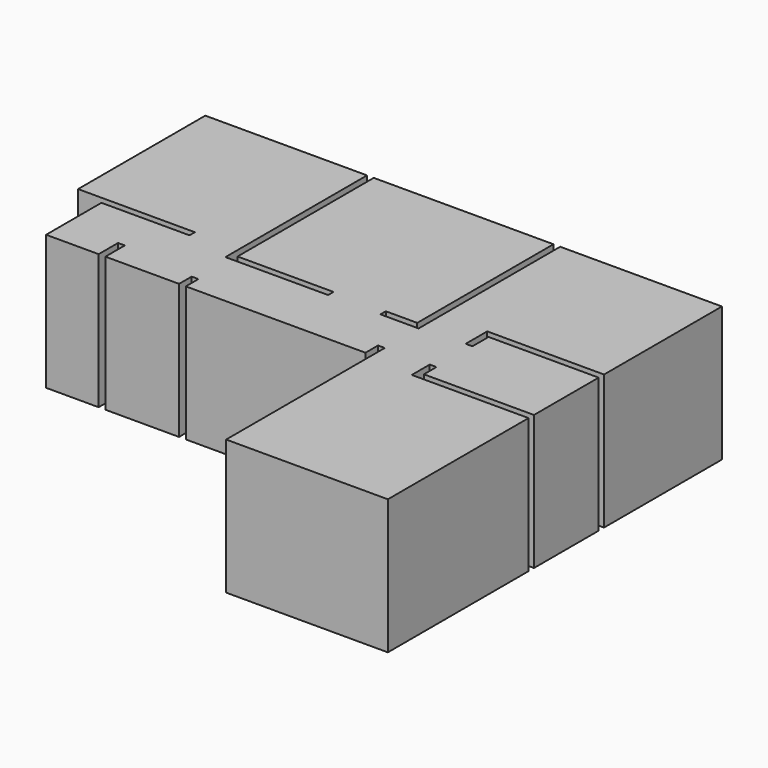
from build123d import *

# Parameters (mm, degrees)
F1_DEPTH = 3000


with BuildPart() as f1:
    # F0 (on Top) → F1 (new body)
    with BuildSketch(Plane.XY):
        Polygon((3600, 0), (0, 0), (0, -3540), (2600, -3540), (2600, -3690), (640, -3690), (640, -5230), (1810, -5230), (1810, -4690), (1960, -4690), (1960, -5230), (3600, -5230), (3600, -4880), (3750, -4880), (3750, -5230), (7750, -5230), (7750, -4880), (7900, -4880), (7900, -5380), (7900, -9295), (11500, -9295), (11500, -5380), (8900, -5380), (8900, -4880), (9050, -4880), (9050, -5230), (11500, -5230), (11500, -3430), (9050, -3430), (9050, -3880), (8900, -3880), (8900, -3280), (11500, -3280), (11500, 0), (7900, 0), (7900, -3940), (7750, -3940), (7050, -3940), (7050, -3790), (7750, -3790), (7750, 0), (3750, 0), (3750, -3790), (5885.294819, -3790), (5885.294819, -3940), (3600, -3940), align=None)
    extrude(amount=F1_DEPTH)


solid = f1.part
